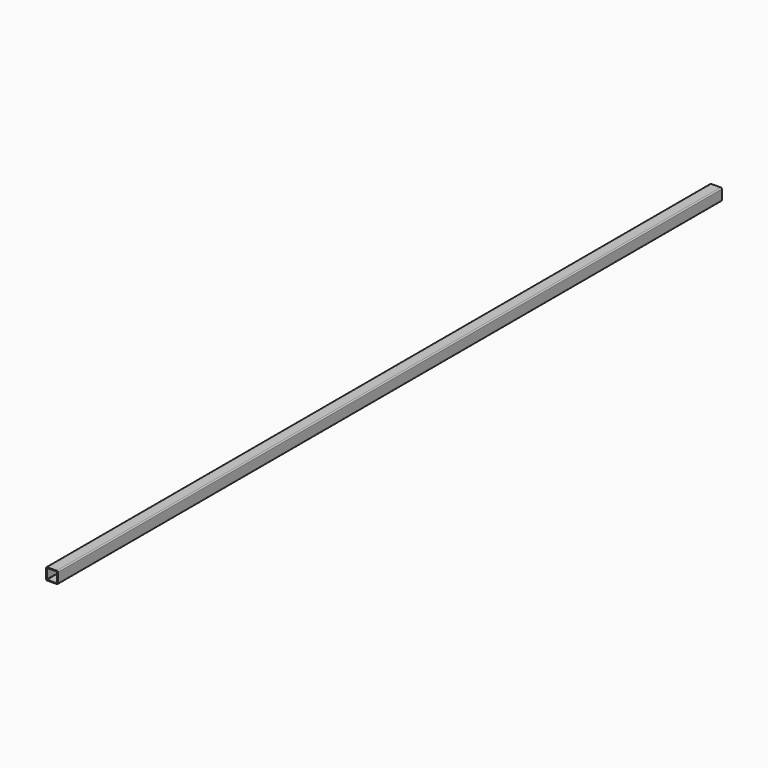
from build123d import *

# Parameters (mm, degrees)
F2_DEPTH = 500
F3_DEPTH = 400


with BuildPart() as f2:
    # F0 (on Front) → F2 (new body)
    with BuildSketch(Plane.XZ):
        with BuildLine():
            Line((5.2, 6.4), (-5.2, 6.4))
            ThreePointArc((-5.2, 6.4), (-6.048528, 6.048528), (-6.4, 5.2))
            Line((-6.4, 5.2), (-6.4, -5.2))
            ThreePointArc((-6.4, -5.2), (-6.048528, -6.048528), (-5.2, -6.4))
            Line((-5.2, -6.4), (5.2, -6.4))
            ThreePointArc((5.2, -6.4), (6.048528, -6.048528), (6.4, -5.2))
            Line((6.4, -5.2), (6.4, 5.2))
            ThreePointArc((6.4, 5.2), (6.048528, 6.048528), (5.2, 6.4))
        make_face()
        with BuildLine():
            ThreePointArc((-5.6, 5.2), (-5.482843, 5.482843), (-5.2, 5.6))
            Line((-5.2, 5.6), (5.2, 5.6))
            ThreePointArc((5.2, 5.6), (5.482843, 5.482843), (5.6, 5.2))
            Line((5.6, 5.2), (5.6, -5.2))
            ThreePointArc((5.6, -5.2), (5.482843, -5.482843), (5.2, -5.6))
            Line((5.2, -5.6), (-5.2, -5.6))
            ThreePointArc((-5.2, -5.6), (-5.482843, -5.482843), (-5.6, -5.2))
            Line((-5.6, -5.2), (-5.6, 5.2))
        make_face(mode=Mode.SUBTRACT)
    extrude(amount=-F2_DEPTH)

    # F2_face (on face) → F3 (join)
    with BuildSketch(Plane.XZ):
        with BuildLine():
            Line((5.2, 6.4), (-5.2, 6.4))
            ThreePointArc((-5.2, 6.4), (-6.048528, 6.048528), (-6.4, 5.2))
            Line((-6.4, 5.2), (-6.4, -5.2))
            ThreePointArc((-6.4, -5.2), (-6.048528, -6.048528), (-5.2, -6.4))
            Line((-5.2, -6.4), (5.2, -6.4))
            ThreePointArc((5.2, -6.4), (6.048528, -6.048528), (6.4, -5.2))
            Line((6.4, -5.2), (6.4, 5.2))
            ThreePointArc((6.4, 5.2), (6.048528, 6.048528), (5.2, 6.4))
        make_face()
        with BuildLine():
            ThreePointArc((-5.6, 5.2), (-5.482843, 5.482843), (-5.2, 5.6))
            Line((-5.2, 5.6), (5.2, 5.6))
            ThreePointArc((5.2, 5.6), (5.482843, 5.482843), (5.6, 5.2))
            Line((5.6, 5.2), (5.6, -5.2))
            ThreePointArc((5.6, -5.2), (5.482843, -5.482843), (5.2, -5.6))
            Line((5.2, -5.6), (-5.2, -5.6))
            ThreePointArc((-5.2, -5.6), (-5.482843, -5.482843), (-5.6, -5.2))
            Line((-5.6, -5.2), (-5.6, 5.2))
        make_face(mode=Mode.SUBTRACT)
    extrude(amount=F3_DEPTH)


solid = f2.part
